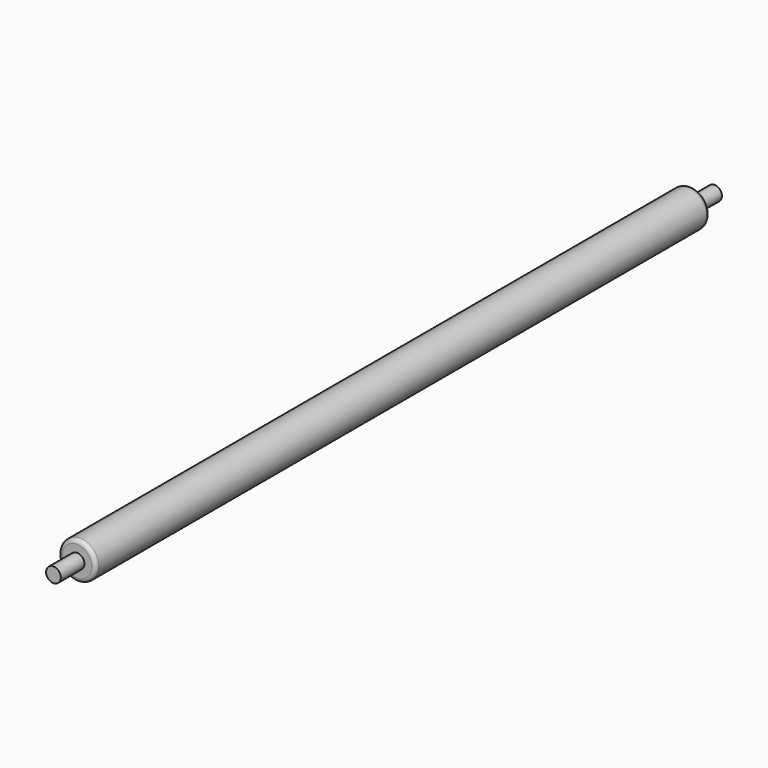
from build123d import *

# Parameters (mm, degrees)
F0_R     = 24.13
F1_DEPTH = 990.6
F2_R     = 9.525
F3_DEPTH = 38.1
F4_R     = 9.525
F5_DEPTH = 38.1
F6_R     = 5


with BuildPart() as f1:
    # F0 (on Front) → F1 (new body)
    with BuildSketch(Plane.XZ):
        Circle(F0_R)
    extrude(amount=-F1_DEPTH)

    # F2 (on face) → F3 (join)
    with BuildSketch(Plane.XZ):
        Circle(F2_R)
    extrude(amount=F3_DEPTH)

    # F6
    f6_edges = [f1.edges().sort_by_distance(p)[0] for p in [
        (-24.13, 0, 0),
        (-24.13, 990.6, 0),
    ]]
    fillet(f6_edges, radius=F6_R)


with BuildPart() as f5:
    # F4 (on face) → F5 (new body)
    with BuildSketch(Plane(origin=(0, 990.6, 0), x_dir=(-1, 0, 0), z_dir=(0, 1, 0))):
        Circle(F4_R)
    extrude(amount=F5_DEPTH)


solid = Compound([f1.part, f5.part])
